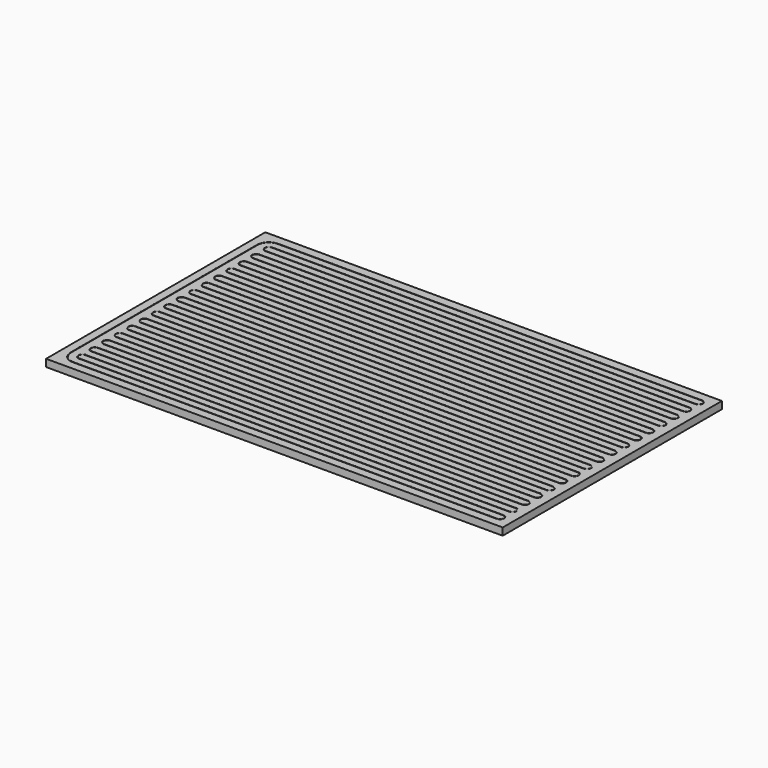
from build123d import *

# Parameters (mm, degrees)
F0_W     = 500
F0_H     = 300
F1_DEPTH = 8
F6_R     = 0.275


with BuildPart() as f1:
    # F0 (on Top) → F1 (new body)
    with BuildSketch(Plane.XY):
        with Locations((3.4268703312, -63.110145576)):
            Rectangle(F0_W, F0_H)
    extrude(amount=F1_DEPTH)


with BuildPart() as f1_1:
    # F4: moved
    add(f1.part.moved(Location((0, 0, 1))))


with BuildPart() as f7:
    # F7: sweep along a path in F5
    with BuildLine(Plane.XY.offset(9)) as f7_path:
        Line((-224.5731296688, -203.610145576), (239.4268703312, -203.610145576))
        ThreePointArc((239.4268703312, -203.610145576), (243.6768703312, -199.360145576), (239.4268703312, -195.110145576))
        Line((239.4268703312, -195.110145576), (-224.5731296688, -195.110145576))
        ThreePointArc((-224.5731296688, -195.110145576), (-228.8231296688, -190.860145576), (-224.5731296688, -186.610145576))
        Line((-224.5731296688, -186.610145576), (239.4268703312, -186.610145576))
        ThreePointArc((239.4268703312, -186.610145576), (243.6768703312, -182.360145576), (239.4268703312, -178.110145576))
        Line((239.4268703312, -178.110145576), (-224.5731296688, -178.110145576))
        ThreePointArc((-224.5731296688, -178.110145576), (-228.8231296688, -173.860145576), (-224.5731296688, -169.610145576))
        Line((-224.5731296688, -169.610145576), (239.4268703312, -169.610145576))
        ThreePointArc((239.4268703312, -169.610145576), (243.6768703312, -165.360145576), (239.4268703312, -161.110145576))
        Line((239.4268703312, -161.110145576), (-224.5731296688, -161.110145576))
        ThreePointArc((-224.5731296688, -161.110145576), (-228.8231296688, -156.860145576), (-224.5731296688, -152.610145576))
        Line((-224.5731296688, -152.610145576), (239.4268703312, -152.610145576))
        ThreePointArc((239.4268703312, -152.610145576), (243.6768703312, -148.360145576), (239.4268703312, -144.110145576))
        Line((239.4268703312, -144.110145576), (-224.5731296688, -144.110145576))
        ThreePointArc((-224.5731296688, -144.110145576), (-228.8231296688, -139.860145576), (-224.5731296688, -135.610145576))
        Line((-224.5731296688, -135.610145576), (239.4268703312, -135.610145576))
        ThreePointArc((239.4268703312, -135.610145576), (243.6768703312, -131.360145576), (239.4268703312, -127.110145576))
        Line((239.4268703312, -127.110145576), (-224.5731296688, -127.110145576))
        ThreePointArc((-224.5731296688, -127.110145576), (-228.8231296688, -122.860145576), (-224.5731296688, -118.610145576))
        Line((-224.5731296688, -118.610145576), (239.4268703312, -118.610145576))
        ThreePointArc((239.4268703312, -118.610145576), (243.6768703312, -114.360145576), (239.4268703312, -110.110145576))
        Line((239.4268703312, -110.110145576), (-224.5731296688, -110.110145576))
        ThreePointArc((-224.5731296688, -110.110145576), (-228.8231296688, -105.860145576), (-224.5731296688, -101.610145576))
        Line((-224.5731296688, -101.610145576), (239.4268703312, -101.610145576))
        ThreePointArc((239.4268703312, -101.610145576), (243.6768703312, -97.360145576), (239.4268703312, -93.110145576))
        Line((239.4268703312, -93.110145576), (-224.5731296688, -93.110145576))
        ThreePointArc((-224.5731296688, -93.110145576), (-228.8231296688, -88.860145576), (-224.5731296688, -84.610145576))
        Line((-224.5731296688, -84.610145576), (239.4268703312, -84.610145576))
        ThreePointArc((239.4268703312, -84.610145576), (243.6768703312, -80.360145576), (239.4268703312, -76.110145576))
        Line((239.4268703312, -76.110145576), (-224.5731296688, -76.110145576))
        ThreePointArc((-224.5731296688, -76.110145576), (-228.8231296688, -71.860145576), (-224.5731296688, -67.610145576))
        Line((-224.5731296688, -67.610145576), (239.4268703312, -67.610145576))
        ThreePointArc((239.4268703312, -67.610145576), (243.6768703312, -63.360145576), (239.4268703312, -59.110145576))
        Line((239.4268703312, -59.110145576), (-224.5731296688, -59.110145576))
        ThreePointArc((-224.5731296688, -59.110145576), (-228.8231296688, -54.860145576), (-224.5731296688, -50.610145576))
        Line((-224.5731296688, -50.610145576), (239.4268703312, -50.610145576))
        ThreePointArc((239.4268703312, -50.610145576), (243.6768703312, -46.360145576), (239.4268703312, -42.110145576))
        Line((239.4268703312, -42.110145576), (-224.5731296688, -42.110145576))
        ThreePointArc((-224.5731296688, -42.110145576), (-228.8231296688, -37.860145576), (-224.5731296688, -33.610145576))
        Line((-224.5731296688, -33.610145576), (239.4268703312, -33.610145576))
        ThreePointArc((239.4268703312, -33.610145576), (243.6768703312, -29.360145576), (239.4268703312, -25.110145576))
        Line((239.4268703312, -25.110145576), (-224.5731296688, -25.110145576))
        ThreePointArc((-224.5731296688, -25.110145576), (-228.8231296688, -20.860145576), (-224.5731296688, -16.610145576))
        Line((-224.5731296688, -16.610145576), (239.4268703312, -16.610145576))
        ThreePointArc((239.4268703312, -16.610145576), (243.6768703312, -12.360145576), (239.4268703312, -8.110145576))
        Line((239.4268703312, -8.110145576), (-224.5731296688, -8.110145576))
        ThreePointArc((-224.5731296688, -8.110145576), (-228.8231296688, -3.860145576), (-224.5731296688, 0.389854424))
        Line((-224.5731296688, 0.389854424), (239.4268703312, 0.389854424))
        ThreePointArc((239.4268703312, 0.389854424), (243.6768703312, 4.639854424), (239.4268703312, 8.889854424))
        Line((239.4268703312, 8.889854424), (-224.5731296688, 8.889854424))
        ThreePointArc((-224.5731296688, 8.889854424), (-228.8231296688, 13.139854424), (-224.5731296688, 17.389854424))
        Line((-224.5731296688, 17.389854424), (239.4268703312, 17.389854424))
        ThreePointArc((239.4268703312, 17.389854424), (243.6768703312, 21.639854424), (239.4268703312, 25.889854424))
        Line((239.4268703312, 25.889854424), (-224.5731296688, 25.889854424))
        ThreePointArc((-224.5731296688, 25.889854424), (-228.8231296688, 30.139854424), (-224.5731296688, 34.389854424))
        Line((-224.5731296688, 34.389854424), (239.4268703312, 34.389854424))
        ThreePointArc((239.4268703312, 34.389854424), (243.6768703312, 38.639854424), (239.4268703312, 42.889854424))
        Line((239.4268703312, 42.889854424), (-224.5731296688, 42.889854424))
        ThreePointArc((-224.5731296688, 42.889854424), (-228.8231296688, 47.139854424), (-224.5731296688, 51.389854424))
        Line((-224.5731296688, 51.389854424), (239.4268703312, 51.389854424))
        ThreePointArc((239.4268703312, 51.389854424), (243.6768703312, 55.639854424), (239.4268703312, 59.889854424))
        Line((239.4268703312, 59.889854424), (-224.5731296688, 59.889854424))
        ThreePointArc((-224.5731296688, 59.889854424), (-228.8231296688, 64.139854424), (-224.5731296688, 68.389854424))
        Line((-224.5731296688, 68.389854424), (239.4268703312, 68.389854424))
        ThreePointArc((239.4268703312, 68.389854424), (243.6768703312, 72.639854424), (239.4268703312, 76.889854424))
        Line((239.4268703312, 76.889854424), (-224.5731296688, 76.889854424))
        ThreePointArc((-224.5731296688, 76.889854424), (-233.588741129, 73.1554658841), (-237.3231296688, 64.139854424))
        Line((-237.3231296688, 64.139854424), (-237.3231296688, -190.860145576))
        ThreePointArc((-237.3231296688, -190.860145576), (-233.588741129, -199.8757570362), (-224.5731296688, -203.610145576))
    # F6 (on Right) → F7 (sweep)
    with BuildSketch(Plane.YZ):
        with Locations((-203.610145576, 9)):
            Circle(F6_R)
    sweep(path=f7_path.line)


solid = Compound([f1_1.part, f7.part])
